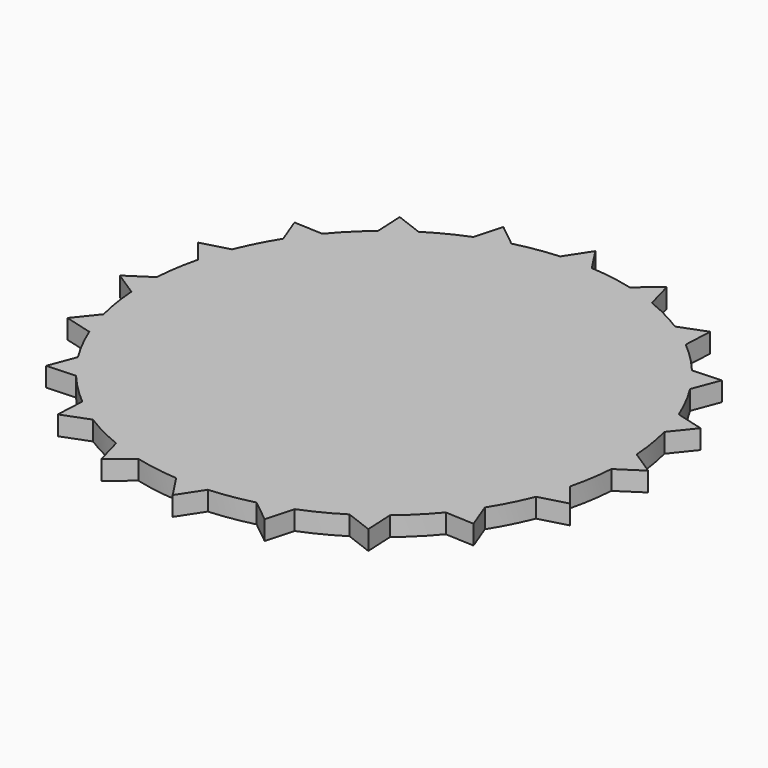
from build123d import *

# Parameters (mm, degrees)
F1_DEPTH = 3


with BuildPart() as f1:
    # F0 (on Top) → F1 (new body)
    with BuildSketch(Plane.XY):
        with BuildLine():
            ThreePointArc((37.418773, -2.466863), (37.479688, -1.2341), (37.5, 0))
            ThreePointArc((37.5, 0), (37.479688, 1.2341), (37.418773, 2.466863))
            ThreePointArc((37.418773, 2.466863), (37.038313, 5.866292), (36.349671, 9.21691))
            ThreePointArc((36.349671, 9.21691), (35.664619, 11.588137), (34.825065, 13.909163))
            ThreePointArc((34.825065, 13.909163), (33.412745, 17.024644), (31.722409, 19.998469))
            ThreePointArc((31.722409, 19.998469), (30.338137, 22.041947), (28.822438, 23.989937))
            ThreePointArc((28.822438, 23.989937), (26.516504, 26.516504), (23.989937, 28.822438))
            ThreePointArc((23.989937, 28.822438), (22.041947, 30.338137), (19.998469, 31.722409))
            ThreePointArc((19.998469, 31.722409), (17.024644, 33.412745), (13.909163, 34.825065))
            ThreePointArc((13.909163, 34.825065), (11.588137, 35.664619), (9.21691, 36.349671))
            ThreePointArc((9.21691, 36.349671), (5.866292, 37.038313), (2.466863, 37.418773))
            ThreePointArc((2.466863, 37.418773), (0, 37.5), (-2.466863, 37.418773))
            ThreePointArc((-2.466863, 37.418773), (-5.866292, 37.038313), (-9.21691, 36.349671))
            ThreePointArc((-9.21691, 36.349671), (-11.588137, 35.664619), (-13.909163, 34.825065))
            ThreePointArc((-13.909163, 34.825065), (-17.024644, 33.412745), (-19.998469, 31.722409))
            ThreePointArc((-19.998469, 31.722409), (-22.041947, 30.338137), (-23.989937, 28.822438))
            ThreePointArc((-23.989937, 28.822438), (-26.516504, 26.516504), (-28.822438, 23.989937))
            ThreePointArc((-28.822438, 23.989937), (-30.338137, 22.041947), (-31.722409, 19.998469))
            ThreePointArc((-31.722409, 19.998469), (-33.412745, 17.024644), (-34.825065, 13.909163))
            ThreePointArc((-34.825065, 13.909163), (-35.664619, 11.588137), (-36.349671, 9.21691))
            ThreePointArc((-36.349671, 9.21691), (-37.038313, 5.866292), (-37.418773, 2.466863))
            ThreePointArc((-37.418773, 2.466863), (-37.5, 0), (-37.418773, -2.466863))
            ThreePointArc((-37.418773, -2.466863), (-37.038313, -5.866292), (-36.349671, -9.21691))
            ThreePointArc((-36.349671, -9.21691), (-35.664619, -11.588137), (-34.825065, -13.909163))
            ThreePointArc((-34.825065, -13.909163), (-33.412745, -17.024644), (-31.722409, -19.998469))
            ThreePointArc((-31.722409, -19.998469), (-30.338137, -22.041947), (-28.822438, -23.989937))
            ThreePointArc((-28.822438, -23.989937), (-26.516504, -26.516504), (-23.989937, -28.822438))
            ThreePointArc((-23.989937, -28.822438), (-22.041947, -30.338137), (-19.998469, -31.722409))
            ThreePointArc((-19.998469, -31.722409), (-17.024644, -33.412745), (-13.909163, -34.825065))
            ThreePointArc((-13.909163, -34.825065), (-11.588137, -35.664619), (-9.21691, -36.349671))
            ThreePointArc((-9.21691, -36.349671), (-5.866292, -37.038313), (-2.466863, -37.418773))
            ThreePointArc((-2.466863, -37.418773), (0, -37.5), (2.466863, -37.418773))
            ThreePointArc((2.466863, -37.418773), (5.866292, -37.038313), (9.21691, -36.349671))
            ThreePointArc((9.21691, -36.349671), (11.588137, -35.664619), (13.909163, -34.825065))
            ThreePointArc((13.909163, -34.825065), (17.024644, -33.412745), (19.998469, -31.722409))
            ThreePointArc((19.998469, -31.722409), (22.041947, -30.338137), (23.989937, -28.822438))
            ThreePointArc((23.989937, -28.822438), (26.516504, -26.516504), (28.822438, -23.989937))
            ThreePointArc((28.822438, -23.989937), (30.338137, -22.041947), (31.722409, -19.998469))
            ThreePointArc((31.722409, -19.998469), (33.412745, -17.024644), (34.825065, -13.909163))
            ThreePointArc((34.825065, -13.909163), (35.664619, -11.588137), (36.349671, -9.21691))
            ThreePointArc((36.349671, -9.21691), (37.038313, -5.866292), (37.418773, -2.466863))
        make_face()
        with BuildLine():
            ThreePointArc((37.418773, 2.466863), (37.479688, 1.2341), (37.5, 0))
            ThreePointArc((37.5, 0), (37.479688, -1.2341), (37.418773, -2.466863))
            Line((37.418773, -2.466863), (41.188397, 0))
            Line((41.188397, 0), (37.418773, 2.466863))
        make_face()
        with BuildLine():
            ThreePointArc((34.825065, 13.909163), (35.664619, 11.588137), (36.349671, 9.21691))
            Line((36.349671, 9.21691), (39.172493, 12.727915))
            Line((39.172493, 12.727915), (34.825065, 13.909163))
        make_face()
        with BuildLine():
            Line((39.172493, -12.727915), (36.349671, -9.21691))
            ThreePointArc((36.349671, -9.21691), (35.664619, -11.588137), (34.825065, -13.909163))
            Line((34.825065, -13.909163), (39.172493, -12.727915))
        make_face()
        with BuildLine():
            ThreePointArc((28.822438, 23.989937), (30.338137, 22.041947), (31.722409, 19.998469))
            Line((31.722409, 19.998469), (33.322113, 24.209932))
            Line((33.322113, 24.209932), (28.822438, 23.989937))
        make_face()
        with BuildLine():
            Line((33.322113, -24.209932), (31.722409, -19.998469))
            ThreePointArc((31.722409, -19.998469), (30.338137, -22.041947), (28.822438, -23.989937))
            Line((28.822438, -23.989937), (33.322113, -24.209932))
        make_face()
        with BuildLine():
            ThreePointArc((19.998469, 31.722409), (22.041947, 30.338137), (23.989937, 28.822438))
            Line((23.989937, 28.822438), (24.209932, 33.322113))
            Line((24.209932, 33.322113), (19.998469, 31.722409))
        make_face()
        with BuildLine():
            Line((24.209932, -33.322113), (23.989937, -28.822438))
            ThreePointArc((23.989937, -28.822438), (22.041947, -30.338137), (19.998469, -31.722409))
            Line((19.998469, -31.722409), (24.209932, -33.322113))
        make_face()
        with BuildLine():
            ThreePointArc((9.21691, 36.349671), (11.588137, 35.664619), (13.909163, 34.825065))
            Line((13.909163, 34.825065), (12.727915, 39.172493))
            Line((12.727915, 39.172493), (9.21691, 36.349671))
        make_face()
        with BuildLine():
            Line((12.727915, -39.172493), (13.909163, -34.825065))
            ThreePointArc((13.909163, -34.825065), (11.588137, -35.664619), (9.21691, -36.349671))
            Line((9.21691, -36.349671), (12.727915, -39.172493))
        make_face()
        with BuildLine():
            ThreePointArc((-2.466863, 37.418773), (0, 37.5), (2.466863, 37.418773))
            Line((2.466863, 37.418773), (0, 41.188397))
            Line((0, 41.188397), (-2.466863, 37.418773))
        make_face()
        with BuildLine():
            Line((0, -41.188397), (2.466863, -37.418773))
            ThreePointArc((2.466863, -37.418773), (0, -37.5), (-2.466863, -37.418773))
            Line((-2.466863, -37.418773), (0, -41.188397))
        make_face()
        with BuildLine():
            ThreePointArc((-13.909163, 34.825065), (-11.588137, 35.664619), (-9.21691, 36.349671))
            Line((-9.21691, 36.349671), (-12.727915, 39.172493))
            Line((-12.727915, 39.172493), (-13.909163, 34.825065))
        make_face()
        with BuildLine():
            Line((-12.727915, -39.172493), (-9.21691, -36.349671))
            ThreePointArc((-9.21691, -36.349671), (-11.588137, -35.664619), (-13.909163, -34.825065))
            Line((-13.909163, -34.825065), (-12.727915, -39.172493))
        make_face()
        with BuildLine():
            ThreePointArc((-23.989937, 28.822438), (-22.041947, 30.338137), (-19.998469, 31.722409))
            Line((-19.998469, 31.722409), (-24.209932, 33.322113))
            Line((-24.209932, 33.322113), (-23.989937, 28.822438))
        make_face()
        with BuildLine():
            Line((-24.209932, -33.322113), (-19.998469, -31.722409))
            ThreePointArc((-19.998469, -31.722409), (-22.041947, -30.338137), (-23.989937, -28.822438))
            Line((-23.989937, -28.822438), (-24.209932, -33.322113))
        make_face()
        with BuildLine():
            ThreePointArc((-31.722409, 19.998469), (-30.338137, 22.041947), (-28.822438, 23.989937))
            Line((-28.822438, 23.989937), (-33.322113, 24.209932))
            Line((-33.322113, 24.209932), (-31.722409, 19.998469))
        make_face()
        with BuildLine():
            Line((-33.322113, -24.209932), (-28.822438, -23.989937))
            ThreePointArc((-28.822438, -23.989937), (-30.338137, -22.041947), (-31.722409, -19.998469))
            Line((-31.722409, -19.998469), (-33.322113, -24.209932))
        make_face()
        with BuildLine():
            ThreePointArc((-36.349671, 9.21691), (-35.664619, 11.588137), (-34.825065, 13.909163))
            Line((-34.825065, 13.909163), (-39.172493, 12.727915))
            Line((-39.172493, 12.727915), (-36.349671, 9.21691))
        make_face()
        with BuildLine():
            Line((-39.172493, -12.727915), (-34.825065, -13.909163))
            ThreePointArc((-34.825065, -13.909163), (-35.664619, -11.588137), (-36.349671, -9.21691))
            Line((-36.349671, -9.21691), (-39.172493, -12.727915))
        make_face()
        with BuildLine():
            ThreePointArc((-37.418773, -2.466863), (-37.5, 0), (-37.418773, 2.466863))
            Line((-37.418773, 2.466863), (-41.188397, 0))
            Line((-41.188397, 0), (-37.418773, -2.466863))
        make_face()
    extrude(amount=F1_DEPTH)


solid = f1.part
